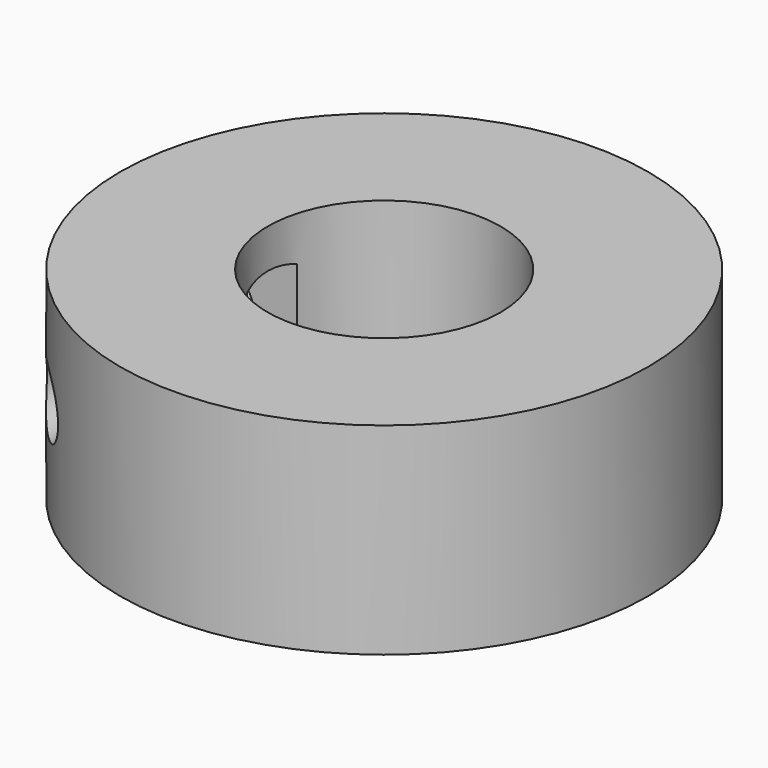
from build123d import *

# Parameters (mm, degrees)
F0_R          = 34
F0_R_2        = 15
F1_DEPTH      = 26
F2_R          = 12
F3_DEPTH      = 4
F3_DEPTH_BACK = 4
F4_R          = 4
F5_DEPTH      = 34.0010001
F5_DEPTH_BACK = 34.0010001


with BuildPart() as f1:
    # F0 (on Top) → F1 (new body)
    with BuildSketch(Plane.XY):
        Circle(F0_R)
        Circle(F0_R_2, mode=Mode.SUBTRACT)
    extrude(amount=F1_DEPTH)

    # F2 (on Front) → F3 (cut, two sides)
    with BuildSketch(Plane.XZ) as f3_sk:
        with Locations((-24, 13)):
            Circle(F2_R)
    extrude(amount=-F3_DEPTH, mode=Mode.SUBTRACT)
    extrude(f3_sk.sketch, amount=F3_DEPTH_BACK, mode=Mode.SUBTRACT)

    # F4 (on Front) → F5 (cut, two sides)
    with BuildSketch(Plane.XZ) as f5_sk:
        with Locations((-24, 13)):
            Circle(F4_R)
    extrude(amount=F5_DEPTH, mode=Mode.SUBTRACT)
    extrude(f5_sk.sketch, amount=-F5_DEPTH_BACK, mode=Mode.SUBTRACT)


solid = f1.part
